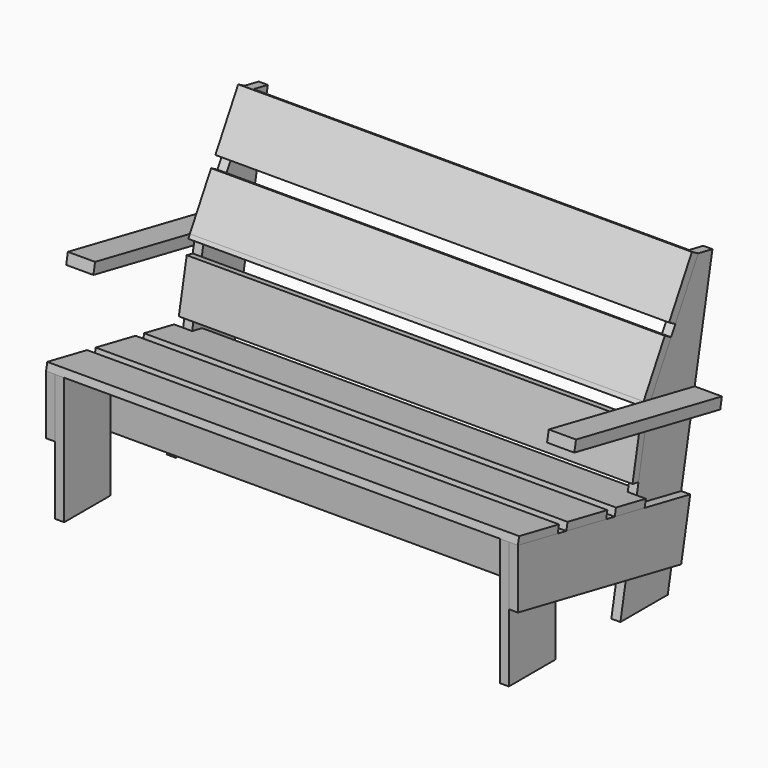
from build123d import *

# Parameters (mm, degrees)
F2_DEPTH       = 1300
F4_DEPTH       = 1300
F6_DEPTH       = 1300
F8_START       = 25
F8_DEPTH       = 1250
F9_START       = 25
F9_DEPTH       = 1250
F10_START      = 25
F10_DEPTH      = 1250
F12_DEPTH      = 25
F14_DEPTH      = 50
F14_DEPTH_BACK = 25
F16_START      = 25
F16_DEPTH      = 25
F18_START      = 25
F18_DEPTH      = 25
F20_START      = 25
F19_W          = 25
F19_H          = 160
F20_DEPTH      = 1250
F24_W          = 89.8274511099
F24_H          = 184.4890600207
F24_W_2        = 136.3316774368
F24_H_2        = 224.5015686514
F25_DEPTH      = 389.8007907773


with BuildPart() as f2:
    # F1 (on Right) → F2 (new body)
    with BuildSketch(Plane.YZ):
        Polygon((-108.1331925128, -342.6288606187), (-245.456303894, -315.3825199362), (-249.5432549964, -335.9809866434), (-112.2201436151, -363.2273273258), align=None)
    extrude(amount=F2_DEPTH)


with BuildPart() as f4:
    # F3 (on Right) → F4 (new body)
    with BuildSketch(Plane.YZ):
        Polygon((-78.7068115025, -348.4673621935), (-82.7937626049, -369.0658289006), (54.5293487763, -396.312169583), (58.6162998787, -375.7137028759), align=None)
    extrude(amount=F4_DEPTH)


with BuildPart() as f6:
    # F5 (on Right) → F6 (new body)
    with BuildSketch(Plane.YZ):
        Polygon((225.3657922702, -408.7985451331), (88.042680889, -381.5522044507), (83.9557297866, -402.1506711578), (221.2788411678, -429.3970118403), align=None)
    extrude(amount=F6_DEPTH)

    # F24 (on offset) → F25 (cut, through all)
    with BuildSketch(Plane(origin=(0, -64.6365148408, -325.7717221639), x_dir=(1, 0, 0), z_dir=(0, 0.1946167192, 0.980879367))):
        with Locations((5.0862744451, 357.9018768786)):
            Rectangle(F24_W, F24_H)
        with Locations((1318.1658387184, 377.908131194)):
            Rectangle(F24_W_2, F24_H_2)
    extrude(amount=-F25_DEPTH, mode=Mode.SUBTRACT)


with BuildPart() as f8:
    # F7 (on Right) → F8 (new body)
    with BuildSketch(Plane.YZ.offset(F8_START)):
        Polygon((196.9143789924, -372.5686865971), (224.1607196748, -235.2455752159), (203.5622529677, -231.1586241135), (176.3159122852, -368.4817354947), align=None)
    extrude(amount=F8_DEPTH)


with BuildPart() as f9:
    # F0 (on Right) → F9 (new body)
    with BuildSketch(Plane.YZ.offset(F9_START)):
        Polygon((214.4308745378, -183.7871273715), (240.2442488743, -188.9087706569), (309.2878805275, -66.4876683337), (287.5123208411, -54.2065853055), align=None)
        Polygon((230.6889491473, -205.8512503266), (240.2442488743, -188.9087706569), (214.4308745378, -183.7871273715), (208.9133894609, -193.5701672984), align=None)
    extrude(amount=F9_DEPTH)


with BuildPart() as f10:
    # F0 (on Right) → F10 (new body)
    with BuildSketch(Plane.YZ.offset(F10_START)):
        Polygon((324.0251801613, -40.35699671), (402.6241115415, 99.0065852829), (380.8485518551, 111.287668311), (302.2496204749, -28.0759136819), align=None)
    extrude(amount=F10_DEPTH)


with BuildPart() as f12:
    # F11 (on Right) → F12 (new body)
    with BuildSketch(Plane.YZ):
        Polygon((-249.5432549964, -499.0999239781), (312.790949971, -610.6729081015), (343.9296250367, -453.7322093802), (-249.5432549964, -335.9809866434), align=None)
    extrude(amount=F12_DEPTH)


with BuildPart() as f14:
    # F13 (on Right) → F14 (new body, two sides)
    with BuildSketch(Plane.YZ) as f14_sk:
        Polygon((384.7175798243, -248.1585903904), (390.5560813991, -218.7322093802), (-112.0149452349, -119.0168645191), (-117.8534468097, -148.4432455293), align=None)
    extrude(amount=-F14_DEPTH)
    extrude(f14_sk.sketch, amount=F14_DEPTH_BACK)


with BuildPart() as f16:
    # F15 (on Right) → F16 (new body)
    with BuildSketch(Plane.YZ.offset(F16_START)):
        Polygon((-249.5432549964, -335.9809866434), (-249.5432549964, -686.4825899402), (-89.5432549964, -686.4825899402), (-89.5432549964, -367.7266590604), align=None)
    extrude(amount=F16_DEPTH)


with BuildPart() as f18:
    # F17 (on Right) → F18 (new body)
    with BuildSketch(Plane.YZ.offset(F18_START)):
        Polygon((134.6305793508, -686.4825899402), (297.7495166855, -686.4825899402), (451.668079892, 89.2757493249), (402.6241115415, 99.0065852829), (229.6150686164, -207.7553453924), align=None)
    extrude(amount=F18_DEPTH)


with BuildPart() as f20:
    # F19 (on Right) → F20 (new body)
    with BuildSketch(Plane.YZ.offset(F20_START)):
        with Locations((-77.0432549964, -452.4240958691)):
            Rectangle(F19_W, F19_H)
    extrude(amount=F20_DEPTH)


with BuildPart() as f22_1:
    # F22: instance of F18
    add(f18.part.mirror(Plane.YZ.offset(650)))


with BuildPart() as f22_2:
    # F22: instance of F16
    add(f16.part.mirror(Plane.YZ.offset(650)))


with BuildPart() as f22_3:
    # F22: instance of F12
    add(f12.part.mirror(Plane.YZ.offset(650)))


with BuildPart() as f22_4:
    # F22: instance of F14
    add(f14.part.mirror(Plane.YZ.offset(650)))


solid = Compound([f2.part, f4.part, f6.part, f8.part, f9.part, f10.part, f12.part, f14.part, f16.part, f18.part, f20.part, f22_1.part, f22_2.part, f22_3.part, f22_4.part])
